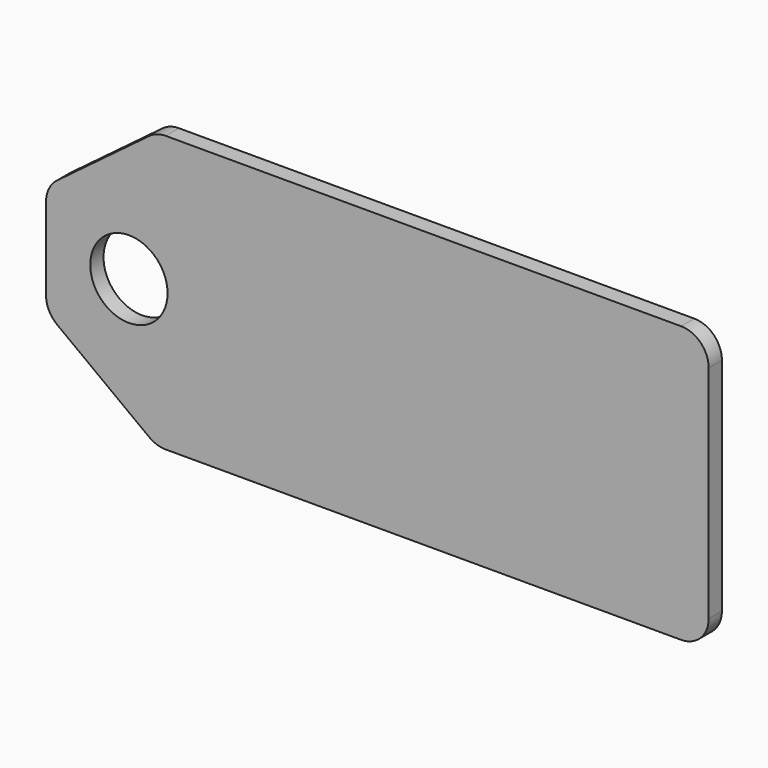
from build123d import *

# Parameters (mm, degrees)
F0_R     = 7
F1_DEPTH = 3


with BuildPart() as f1:
    # F0 (on Front) → F1 (new body)
    with BuildSketch(Plane.XZ):
        with BuildLine():
            ThreePointArc((60, 20), (58.535534, 23.535534), (55, 25))
            Line((55, 25), (-38.333333, 25))
            ThreePointArc((-38.333333, 25), (-39.914472, 24.743416), (-41.333333, 24))
            Line((-41.333333, 24), (-58, 11.5))
            ThreePointArc((-58, 11.5), (-59.472136, 9.736068), (-60, 7.5))
            Line((-60, 7.5), (-60, -7.5))
            ThreePointArc((-60, -7.5), (-59.472136, -9.736068), (-58, -11.5))
            Line((-58, -11.5), (-41.333333, -24))
            ThreePointArc((-41.333333, -24), (-39.914472, -24.743416), (-38.333333, -25))
            Line((-38.333333, -25), (55, -25))
            ThreePointArc((55, -25), (58.535534, -23.535534), (60, -20))
            Line((60, -20), (60, 20))
        make_face()
        with Locations((-45, 0)):
            Circle(F0_R, mode=Mode.SUBTRACT)
    extrude(amount=F1_DEPTH)


solid = f1.part
